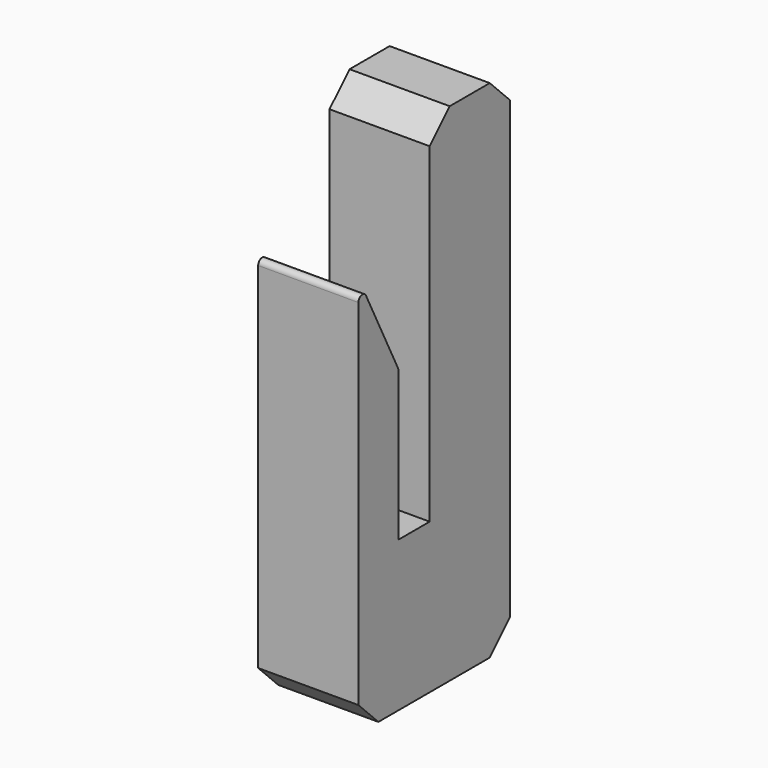
from build123d import *

# Parameters (mm, degrees)
F3_DEPTH = 20
F4_SIZE  = 5
F5_R     = 1


with BuildPart() as f3:
    # F2 (on face) → F3 (new body)
    with BuildSketch(Plane.YZ.offset(-138.1125)):
        Polygon((26.8, -39.5), (6.8, -39.5), (6.8, -110.5), (-1, -110.5), (-1, -80.5), (-11, -60.5), (-11, -140.5), (26.8, -140.5), (26.8, -120.5), (26.8, -59.5), align=None)
    extrude(amount=F3_DEPTH)

    # F4
    f4_edges = [f3.edges().sort_by_distance(p)[0] for p in [
        (-128.1125, 26.8, -39.5),
        (-128.1125, 6.8, -39.5),
        (-128.1125, -11, -140.5),
        (-128.1125, 26.8, -140.5),
    ]]
    chamfer(f4_edges, length=F4_SIZE)

    # F5
    f5_edges = [f3.edges().sort_by_distance(p)[0] for p in [
        (-128.1125, -11, -60.5),
        (-128.1125, -1, -80.5),
    ]]
    fillet(f5_edges, radius=F5_R)


solid = f3.part
